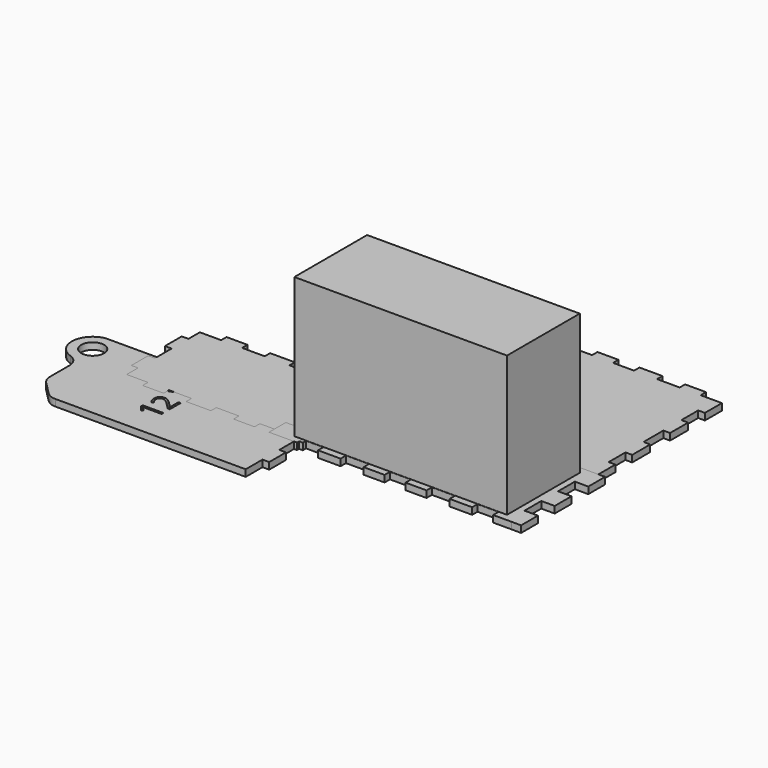
from build123d import *

# Parameters (mm, degrees)
F2_DEPTH = 105
F3_R     = 7.4
F5_DEPTH = 4.8
F4_R     = 8.1755510114
F6_DEPTH = 4.8
F3_W     = 4.8
F3_H     = 10.1789468527
F3_H_2   = 15
F7_DEPTH = 4.8
F8_DEPTH = 4.8
F3_H_3   = 4.8210531473
F9_DEPTH = 4.8


with BuildPart() as f2:
    # F1 (on Top) → F2 (new body)
    with BuildSketch(Plane.XY):
        Polygon((76, 32.5), (0, 32.5), (-76, 32.5), (-76, 0), (-76, -32.5), (0, -32.5), (76, -32.5), (76, 0), align=None)
    extrude(amount=F2_DEPTH)


with BuildPart() as f5:
    # F3 (on Top) → F5 (new body)
    with BuildSketch(Plane.XY):
        Polygon((-70.0934343868, 37.5), (-85.3, 37.5), (-85.3, 32.6789468527), (-85.3, 22.5), (-80.5, 22.5), (-80.5, 7.5), (-85.3, 7.5), (-85.3, -7.5), (-80.5, -7.5), (-80.5, -22.5), (-85.3, -22.5), (-85.3, -32.6789468527), (-85.3, -37.5), (-70.0934343868, -37.5), (-70.0934343868, -32.7), (-55.0934343868, -32.7), (-55.0934343868, -37.5), (-38.9454808351, -37.5), (-38.9454808351, -32.7), (-22.5, -32.7), (-22.5, -37.5), (-7.5, -37.5), (-7.5, -32.7), (7.5, -32.7), (7.5, -37.5), (22.5, -37.5), (22.5, -32.7), (38.9454808351, -32.7), (38.9454808351, -37.5), (55.0934343868, -37.5), (55.0934343868, -32.7), (70.0934343868, -32.7), (70.0934343868, -37.5), (83.1741839647, -37.5), (85.3, -37.5), (85.3, -22.5), (80.5, -22.5), (80.5, -7.5), (85.3, -7.5), (85.3, 7.5), (80.5, 7.5), (80.5, 22.5), (85.3, 22.5), (85.3, 37.5), (70.0934343868, 37.5), (70.0934343868, 32.7), (55.0934343868, 32.7), (55.0934343868, 37.5), (38.9454808351, 37.5), (38.9454808351, 32.7), (22.5, 32.7), (22.5, 37.5), (7.5, 37.5), (7.5, 32.7), (-7.5, 32.7), (-7.5, 37.5), (-22.5, 37.5), (-22.5, 32.7), (-38.9454808351, 32.7), (-38.9454808351, 37.5), (-55.0934343868, 37.5), (-55.0934343868, 32.7), (-70.0934343868, 32.7), align=None)
        with Locations((-21.3648602366, 0)):
            Circle(F3_R, mode=Mode.SUBTRACT)
        with Locations((27.4529177696, 0)):
            Circle(F3_R, mode=Mode.SUBTRACT)
    extrude(amount=F5_DEPTH)


with BuildPart() as f6:
    # F4 (on Top) → F6 (new body)
    with BuildSketch(Plane.XY):
        with BuildLine():
            ThreePointArc((-215.3963981849, -77.7004038195), (-212.1521646967, -79.8681313328), (-208.325330373, -80.6293360077))
            Line((-208.325330373, -80.6293360077), (-72.2674659967, -80.6293360077))
            Line((-72.2674659967, -80.6293360077), (-72.2674659967, -65.6293360077))
            Line((-72.2674659967, -65.6293360077), (-67.4674659967, -65.6293360077))
            Line((-67.4674659967, -65.6293360077), (-67.4674659967, -50.6293360077))
            Line((-67.4674659967, -50.6293360077), (-72.2674659967, -50.6293360077))
            Line((-72.2674659967, -50.6293360077), (-72.2674659967, -35.6293360077))
            Line((-72.2674659967, -35.6293360077), (-67.4674659967, -35.6293360077))
            Line((-67.4674659967, -35.6293360077), (-67.4674659967, -20.6293360077))
            Line((-67.4674659967, -20.6293360077), (-72.2674659967, -20.6293360077))
            Line((-72.2674659967, -20.6293360077), (-72.2674659967, -5.6293360077))
            Line((-72.2674659967, -5.6293360077), (-232.0545663539, -5.7947157532))
            ThreePointArc((-232.0545663539, -5.7947157532), (-244.5951250107, -19.3082097702), (-234.3702429265, -34.6487416495))
            ThreePointArc((-234.3702429265, -34.6487416495), (-229.3751168106, -38.2821603374), (-227.4674659967, -44.1570122206))
            Line((-227.4674659967, -44.1570122206), (-227.4674659967, -61.4872003839))
            ThreePointArc((-227.4674659967, -61.4872003839), (-226.7062613219, -65.3140347076), (-224.5385338086, -68.5582681958))
            Line((-224.5385338086, -68.5582681958), (-215.3963981849, -77.7004038195))
        make_face()
        with BuildLine():
            Line((-165.5119150877, -56.1561346468), (-150.6388682127, -56.1561346468))
            Line((-150.6388682127, -56.1561346468), (-150.6388682127, -57.8032700635))
            Line((-150.6388682127, -57.8032700635), (-161.237826546, -57.8032700635))
            add(Edge.make_bspline(
                [(-161.237826546, -57.8032700635), (-162.5626963377, -57.8032700635), (-163.7410817544, -57.7218898551)],
                knots=[0, 0, 0, 1, 1, 1], degree=2))
            add(Edge.make_bspline(
                [(-163.7410817544, -57.7218898551), (-163.5262380044, -57.9334783968), (-163.2934906085, -58.198777876)],
                knots=[0, 0, 0, 1, 1, 1], degree=2))
            add(Edge.make_bspline(
                [(-163.2934906085, -58.198777876), (-163.0607432127, -58.4640773551), (-161.3094411294, -60.6190252718)],
                knots=[0, 0, 0, 1, 1, 1], degree=2))
            Line((-161.3094411294, -60.6190252718), (-162.468295296, -61.5142075635))
            Line((-162.468295296, -61.5142075635), (-165.5119150877, -57.5786606885))
            Line((-165.5119150877, -57.5786606885), (-165.5119150877, -56.1561346468))
        make_face(mode=Mode.SUBTRACT)
        with BuildLine():
            Line((-152.204623421, -40.7231919385), (-150.6388682127, -40.7231919385))
            Line((-150.6388682127, -40.7231919385), (-150.6388682127, -50.4985825635))
            Line((-150.6388682127, -50.4985825635), (-152.0939463377, -50.4985825635))
            Line((-152.0939463377, -50.4985825635), (-156.0294932127, -46.5825669385))
            add(Edge.make_bspline(
                [(-156.0294932127, -46.5825669385), (-157.8426442544, -44.7922023551), (-158.6157562335, -44.2225408968)],
                knots=[0, 0, 0, 1, 1, 1], degree=2))
            add(Edge.make_bspline(
                [(-158.6157562335, -44.2225408968), (-159.3888682127, -43.6528794385), (-160.1212900877, -43.3680487093)],
                knots=[0, 0, 0, 1, 1, 1], degree=2))
            add(Edge.make_bspline(
                [(-160.1212900877, -43.3680487093), (-160.8537119627, -43.0832179801), (-161.696810921, -43.0832179801)],
                knots=[0, 0, 0, 1, 1, 1], degree=2))
            add(Edge.make_bspline(
                [(-161.696810921, -43.0832179801), (-162.888217171, -43.0832179801), (-163.5848317544, -43.8058742301)],
                knots=[0, 0, 0, 1, 1, 1], degree=2))
            add(Edge.make_bspline(
                [(-163.5848317544, -43.8058742301), (-164.2814463377, -44.5285304801), (-164.2814463377, -45.8110825635)],
                knots=[0, 0, 0, 1, 1, 1], degree=2))
            add(Edge.make_bspline(
                [(-164.2814463377, -45.8110825635), (-164.2814463377, -46.7355617301), (-163.9754567544, -47.5656398551)],
                knots=[0, 0, 0, 1, 1, 1], degree=2))
            add(Edge.make_bspline(
                [(-163.9754567544, -47.5656398551), (-163.669467171, -48.3957179801), (-162.8654307127, -49.4113429801)],
                knots=[0, 0, 0, 1, 1, 1], degree=2))
            Line((-162.8654307127, -49.4113429801), (-164.0145192544, -50.3065252718))
            add(Edge.make_bspline(
                [(-164.0145192544, -50.3065252718), (-165.7235036294, -48.2524888135), (-165.7235036294, -45.8306138135)],
                knots=[0, 0, 0, 1, 1, 1], degree=2))
            add(Edge.make_bspline(
                [(-165.7235036294, -45.8306138135), (-165.7235036294, -43.7342596468), (-164.6509124835, -42.544481001)],
                knots=[0, 0, 0, 1, 1, 1], degree=2))
            add(Edge.make_bspline(
                [(-164.6509124835, -42.544481001), (-163.5783213377, -41.3547023551), (-161.7684255044, -41.3547023551)],
                knots=[0, 0, 0, 1, 1, 1], degree=2))
            add(Edge.make_bspline(
                [(-161.7684255044, -41.3547023551), (-160.3524098794, -41.3547023551), (-158.9689463377, -42.1489731885)],
                knots=[0, 0, 0, 1, 1, 1], degree=2))
            add(Edge.make_bspline(
                [(-158.9689463377, -42.1489731885), (-157.585482796, -42.9432440218), (-155.4695973794, -45.1177231885)],
                knots=[0, 0, 0, 1, 1, 1], degree=2))
            Line((-155.4695973794, -45.1177231885), (-152.2860036294, -48.3729315218))
            Line((-152.2860036294, -48.3729315218), (-152.204623421, -48.3729315218))
            Line((-152.204623421, -48.3729315218), (-152.204623421, -40.7231919385))
        make_face(mode=Mode.SUBTRACT)
        with BuildLine():
            Line((-155.9481130044, -27.0513169385), (-165.5119150877, -23.6528794385))
            Line((-165.5119150877, -23.6528794385), (-165.5119150877, -21.7941554801))
            Line((-165.5119150877, -21.7941554801), (-150.6388682127, -27.1522283968))
            Line((-150.6388682127, -27.1522283968), (-150.6388682127, -28.8612127718))
            Line((-150.6388682127, -28.8612127718), (-165.5119150877, -34.1932440218))
            Line((-165.5119150877, -34.1932440218), (-165.5119150877, -32.3605617301))
            Line((-165.5119150877, -32.3605617301), (-155.8895192544, -28.9425929801))
            add(Edge.make_bspline(
                [(-155.8895192544, -28.9425929801), (-154.2293630044, -28.3534002718), (-152.663607796, -28.0083481885)],
                knots=[0, 0, 0, 1, 1, 1], degree=2))
            add(Edge.make_bspline(
                [(-152.663607796, -28.0083481885), (-154.3107432127, -27.6405096468), (-155.9481130044, -27.0513169385)],
                knots=[0, 0, 0, 1, 1, 1], degree=2))
        make_face(mode=Mode.SUBTRACT)
        with Locations((-229.7610161753, -20.4987194908)):
            Circle(F4_R, mode=Mode.SUBTRACT)
    extrude(amount=F6_DEPTH)


with BuildPart() as f7:
    # F3 (on Top) → F7 (new body)
    with BuildSketch(Plane.XY):
        Polygon((-80.5, 22.5), (-85.3, 22.5), (-90.1, 22.5), (-90.1, 32.6789468527), (-100.5065656132, 32.6789468527), (-100.5065656132, 37.4789468527), (-115.5065656132, 37.4789468527), (-115.5065656132, 32.6789468527), (-131.6545191649, 32.6789468527), (-131.6545191649, 37.4789468527), (-149.3454808351, 37.4789468527), (-149.3454808351, 32.6789468527), (-165.4934343868, 32.6789468527), (-165.4934343868, 37.4789468527), (-180.4934343868, 37.4789468527), (-180.4934343868, 32.6789468527), (-195.7, 32.6789468527), (-195.7, 22.5), (-200.5, 22.5), (-200.5, 7.5), (-195.7, 7.5), (-195.7, -7.5), (-200.5, -7.5), (-200.5, -22.5), (-195.7, -22.5), (-195.7, -32.6789468527), (-180.4934343868, -32.6789468527), (-180.4934343868, -37.4789468527), (-165.4934343868, -37.4789468527), (-165.4934343868, -32.6789468527), (-149.3454808351, -32.6789468527), (-149.3454808351, -37.4789468527), (-131.6545191649, -37.4789468527), (-131.6545191649, -32.6789468527), (-115.5065656132, -32.6789468527), (-115.5065656132, -37.4789468527), (-100.5065656132, -37.4789468527), (-100.5065656132, -32.6789468527), (-90.1, -32.6789468527), (-90.1, -22.5), (-85.3, -22.5), (-80.5, -22.5), (-80.5, -7.5), (-85.3, -7.5), (-90.1, -7.5), (-90.1, 7.5), (-85.3, 7.5), (-80.5, 7.5), align=None)
        with Locations((-87.7, 27.5894734263)):
            Rectangle(F3_W, F3_H)
        with Locations((-87.7, 0)):
            Rectangle(F3_W, F3_H_2)
        with Locations((-87.7, -27.5894734263)):
            Rectangle(F3_W, F3_H)
    extrude(amount=F7_DEPTH)


with BuildPart() as f8:
    # F3 (on Top) → F8 (new body)
    with BuildSketch(Plane.XY):
        Polygon((-85.3, 52.7065656132), (-85.3, 37.5), (-70.0934343868, 37.5), (-70.0934343868, 32.7), (-55.0934343868, 32.7), (-55.0934343868, 37.5), (-38.9454808351, 37.5), (-38.9454808351, 32.7), (-22.5, 32.7), (-22.5, 37.5), (-7.5, 37.5), (-7.5, 32.7), (7.5, 32.7), (7.5, 37.5), (22.5, 37.5), (22.5, 32.7), (38.9454808351, 32.7), (38.9454808351, 37.5), (55.0934343868, 37.5), (55.0934343868, 32.7), (70.0934343868, 32.7), (70.0934343868, 37.5), (85.3, 37.5), (85.3, 52.7065656132), (80.5, 52.7065656132), (80.5, 67.7065656132), (85.3, 67.7065656132), (85.3, 83.8545191649), (80.5, 83.8545191649), (80.5, 101.5454808351), (85.3, 101.5454808351), (85.3, 117.6934343868), (80.5, 117.6934343868), (80.5, 132.6934343868), (85.3, 132.6934343868), (85.3, 147.9), (70.0934343868, 147.9), (70.0934343868, 152.7), (55.0934343868, 152.7), (55.0934343868, 147.9), (38.9454808351, 147.9), (38.9454808351, 152.7), (22.5, 152.7), (22.5, 147.9), (7.5, 147.9), (7.5, 152.7), (-7.5, 152.7), (-7.5, 147.9), (-22.5, 147.9), (-22.5, 152.7), (-38.9454808351, 152.7), (-38.9454808351, 147.9), (-55.0934343868, 147.9), (-55.0934343868, 152.7), (-70.0934343868, 152.7), (-70.0934343868, 147.9), (-85.3, 147.9), (-85.3, 132.6934343868), (-80.5, 132.6934343868), (-80.5, 117.6934343868), (-85.3, 117.6934343868), (-85.3, 101.5454808351), (-80.5, 101.5454808351), (-80.5, 83.8545191649), (-85.3, 83.8545191649), (-85.3, 67.7065656132), (-80.5, 67.7065656132), (-80.5, 52.7065656132), align=None)
    extrude(amount=F8_DEPTH)


with BuildPart() as f9:
    # F3 (on Top) → F9 (new body)
    with BuildSketch(Plane.XY):
        Polygon((-70.0934343868, 37.5), (-85.3, 37.5), (-85.3, 32.6789468527), (-85.3, 22.5), (-80.5, 22.5), (-80.5, 7.5), (-85.3, 7.5), (-85.3, -7.5), (-80.5, -7.5), (-80.5, -22.5), (-85.3, -22.5), (-85.3, -32.6789468527), (-85.3, -37.5), (-70.0934343868, -37.5), (-70.0934343868, -32.7), (-55.0934343868, -32.7), (-55.0934343868, -37.5), (-38.9454808351, -37.5), (-38.9454808351, -32.7), (-22.5, -32.7), (-22.5, -37.5), (-7.5, -37.5), (-7.5, -32.7), (7.5, -32.7), (7.5, -37.5), (22.5, -37.5), (22.5, -32.7), (38.9454808351, -32.7), (38.9454808351, -37.5), (55.0934343868, -37.5), (55.0934343868, -32.7), (70.0934343868, -32.7), (70.0934343868, -37.5), (83.1741839647, -37.5), (85.3, -37.5), (85.3, -22.5), (80.5, -22.5), (80.5, -7.5), (85.3, -7.5), (85.3, 7.5), (80.5, 7.5), (80.5, 22.5), (85.3, 22.5), (85.3, 37.5), (70.0934343868, 37.5), (70.0934343868, 32.7), (55.0934343868, 32.7), (55.0934343868, 37.5), (38.9454808351, 37.5), (38.9454808351, 32.7), (22.5, 32.7), (22.5, 37.5), (7.5, 37.5), (7.5, 32.7), (-7.5, 32.7), (-7.5, 37.5), (-22.5, 37.5), (-22.5, 32.7), (-38.9454808351, 32.7), (-38.9454808351, 37.5), (-55.0934343868, 37.5), (-55.0934343868, 32.7), (-70.0934343868, 32.7), align=None)
        with Locations((-21.3648602366, 0)):
            Circle(F3_R, mode=Mode.SUBTRACT)
        with Locations((27.4529177696, 0)):
            Circle(F3_R, mode=Mode.SUBTRACT)
        with Locations((-87.7, 27.5894734263)):
            Rectangle(F3_W, F3_H)
        with Locations((-87.7, 35.0894734263)):
            Rectangle(F3_W, F3_H_3)
        with Locations((-87.7, 0)):
            Rectangle(F3_W, F3_H_2)
        with Locations((-87.7, -27.5894734263)):
            Rectangle(F3_W, F3_H)
        with Locations((-87.7, -35.0894734263)):
            Rectangle(F3_W, F3_H_3)
        with Locations((87.7, 30)):
            Rectangle(F3_W, F3_H_2)
        with Locations((87.7, 0)):
            Rectangle(F3_W, F3_H_2)
        Polygon((90.1, -22.5), (85.3, -22.5), (85.3, -37.5), (83.1741839647, -37.5), (90.1, -37.5439338386), align=None)
        with Locations((-21.3648602366, 0)):
            Circle(F3_R)
        with Locations((27.4529177696, 0)):
            Circle(F3_R)
    extrude(amount=F9_DEPTH)


solid = Compound([f2.part, f5.part, f6.part, f7.part, f8.part, f9.part])
